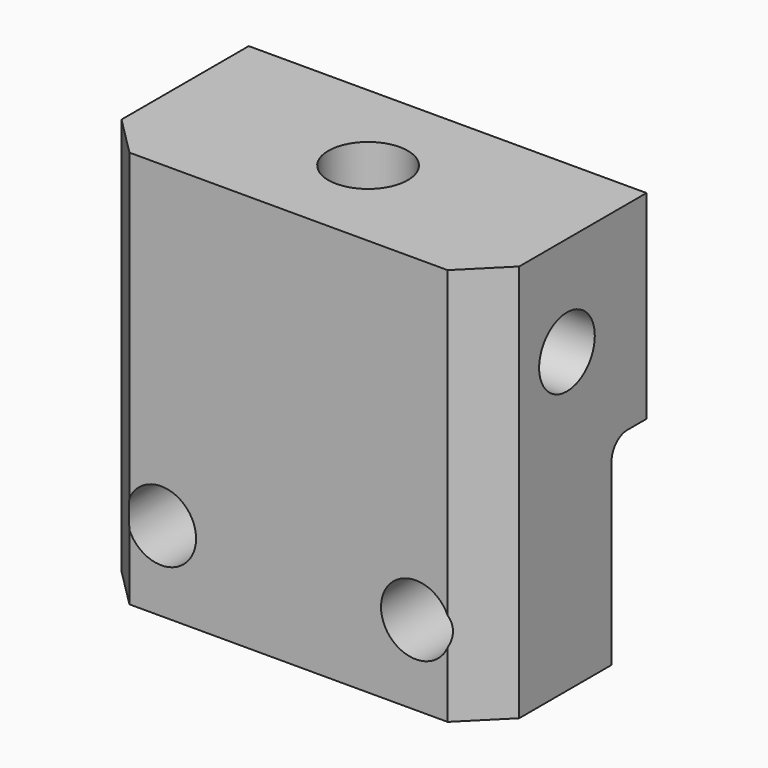
from build123d import *

# Parameters (mm, degrees)
F0_W     = 10
F0_H     = 5
F1_DEPTH = 10
F2_W     = 3
F2_H     = 5
F3_DEPTH = 4
F4_W     = 10
F4_H     = 5
F5_DEPTH = 1.1
F6_R     = 0.5
F7_R     = 0.5
F8_SIZE  = 1
F10_D    = 1.75
F12_D    = 1.75
F14_D    = 2


with BuildPart() as f1:
    # F0 (on Top) → F1 (new body)
    with BuildSketch(Plane.XY):
        Rectangle(F0_W, F0_H)
    extrude(amount=F1_DEPTH)

    # F2 (on face) → F3 (cut)
    with BuildSketch(Plane(origin=(0, 2.5, 0), x_dir=(-1, 0, 0), z_dir=(0, 1, 0))):
        with Locations((0, 2.5)):
            Rectangle(F2_W, F2_H)
    extrude(amount=-F3_DEPTH, mode=Mode.SUBTRACT)

    # F4 (on face) → F5 (cut)
    with BuildSketch(Plane(origin=(0, 2.5, 0), x_dir=(-1, 0, 0), z_dir=(0, 1, 0))):
        with Locations((0, 2.5)):
            Rectangle(F4_W, F4_H)
    extrude(amount=-F5_DEPTH, mode=Mode.SUBTRACT)

    # F6
    f6_edges = [f1.edges().sort_by_distance(p)[0] for p in [
        (1.5, -1.5, 2.5),
        (-1.5, -1.5, 2.5),
        (0, -1.5, 5),
    ]]
    fillet(f6_edges, radius=F6_R)

    # F7
    f7_edges = [f1.edges().sort_by_distance(p)[0] for p in [
        (-3.25, 1.4, 5),
        (3.25, 1.4, 5),
    ]]
    fillet(f7_edges, radius=F7_R)

    # F8
    f8_edges = [f1.edges().sort_by_distance(p)[0] for p in [
        (5, -2.5, 5),
        (-5, -2.5, 5),
    ]]
    chamfer(f8_edges, length=F8_SIZE)

    # F10 (through all)
    with Locations(Plane(origin=(0, 1.4, 0), x_dir=(-1, 0, 0), z_dir=(0, 1, 0))):
        with Locations((-3.2, 2), (3.2, 2)):
            Hole(F10_D / 2)

    # F12 (through all)
    with Locations(Plane(origin=(-5, 0, 0), x_dir=(0, -1, 0), z_dir=(-1, 0, 0))):
        with Locations((0, 7.5)):
            Hole(F12_D / 2)

    # F14 (through all)
    with Locations(Plane.XY.offset(10)):
        with Locations((0, 0)):
            Hole(F14_D / 2)


solid = f1.part
